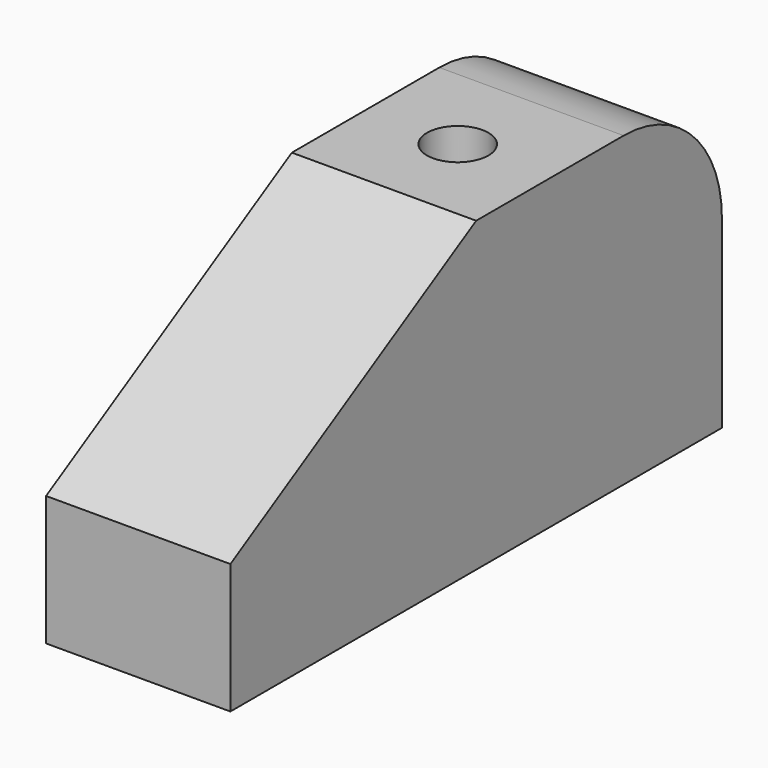
from build123d import *

# Parameters (mm, degrees)
PAD_DEPTH    = 30
SKETCH001_R  = 5
POCKET_DEPTH = 50.001


with BuildPart() as part:
    # Sketch → Pad (new body)
    with BuildSketch(Plane.YZ):
        with BuildLine():
            Line((0, 0), (100, 0))
            Line((100, 0), (100, 30))
            ThreePointArc((100, 30), (94.142136, 44.142136), (80, 50))
            Line((50, 50), (80, 50))
            Line((0, 21.132487), (50, 50))
            Line((0, 0), (0, 21.132487))
        make_face()
    extrude(amount=-PAD_DEPTH)

    # Sketch001 (on Face5 of Pad) → Pocket (cut, through all)
    with BuildSketch(Plane(origin=(0, 0, 50), x_dir=(0, -1, 0), z_dir=(0, 0, 1))):
        with Locations((-65, -15)):
            Circle(SKETCH001_R)
    extrude(amount=-POCKET_DEPTH, mode=Mode.SUBTRACT)


solid = part.part
